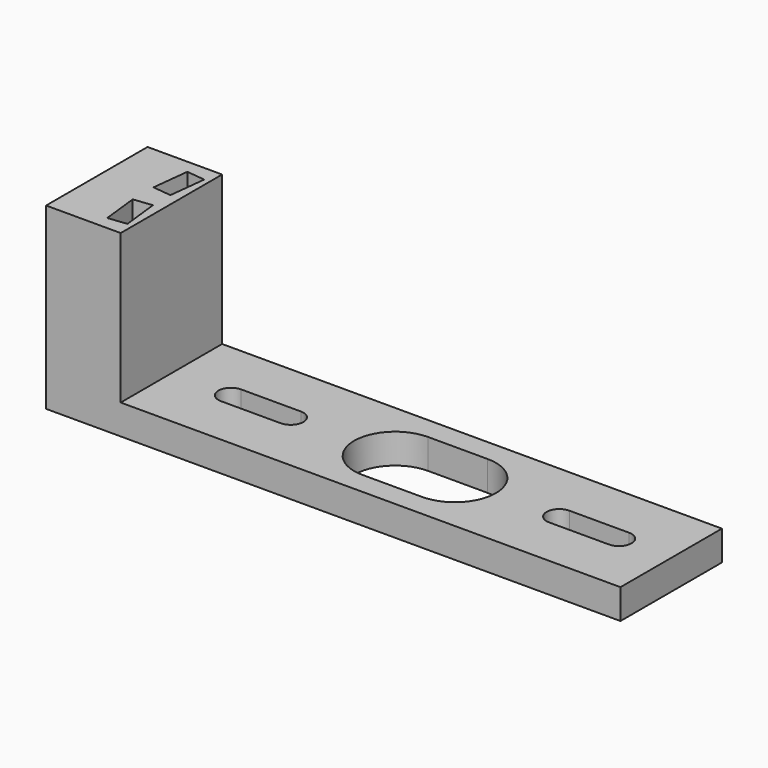
from build123d import *

# Parameters (mm, degrees)
PAD_DEPTH       = 8.5
POCKET_DEPTH    = 24.001
POCKET001_DEPTH = 8.5
CHAMFER_SIZE    = 1.5
CHAMFER001_SIZE = 1.5


with BuildPart() as part:
    # Sketch → Pad (new body, symmetric)
    with BuildSketch(Plane.XZ):
        Polygon((-44, -4), (-44, 20), (-34, 20), (-34, 0), (33, 0), (33, -4), align=None)
    extrude(amount=PAD_DEPTH, both=True)

    # Sketch001 → Pocket (cut, through all)
    with BuildSketch(Plane(origin=(0, 0, -4), x_dir=(1, 0, 0), z_dir=(0, 0, -1))):
        with BuildLine():
            ThreePointArc((-26, 1.7), (-27.7, 0), (-26, -1.7))
            Line((-26, -1.7), (-18, -1.7))
            ThreePointArc((-18, -1.7), (-16.3, 0), (-18, 1.7))
            Line((-26, 1.7), (-18, 1.7))
        make_face()
        with BuildLine():
            ThreePointArc((-4, 5.5), (-9.5, 0), (-4, -5.5))
            Line((-4, -5.5), (4, -5.5))
            ThreePointArc((4, -5.5), (9.5, 0), (4, 5.5))
            Line((-4, 5.5), (4, 5.5))
        make_face()
        with BuildLine():
            ThreePointArc((18, 1.7), (16.3, 0), (18, -1.7))
            Line((18, -1.7), (26, -1.7))
            ThreePointArc((26, -1.7), (27.7, 0), (26, 1.7))
            Line((18, 1.7), (26, 1.7))
        make_face()
    extrude(amount=-POCKET_DEPTH, mode=Mode.SUBTRACT)

    # Sketch006 → Pocket001 (cut)
    with BuildSketch(Plane(origin=(0, 0, 20), x_dir=(-1, 0, 0), z_dir=(0, 0, 1))):
        Polygon((34.748284, 6.431895), (37.232557, 6.711868), (37.792504, 1.743321), (35.30823, 1.463348), align=None)
        Polygon((35.30823, -1.463348), (37.792504, -1.743321), (37.232557, -6.711868), (34.748284, -6.431895), align=None)
    extrude(amount=-POCKET001_DEPTH, mode=Mode.SUBTRACT)

    # Chamfer
    chamfer_edges = [part.edges().sort_by_distance(p)[0] for p in [
        (22, 1.7, -4),
    ]]
    chamfer(chamfer_edges, length=CHAMFER_SIZE)

    # Chamfer001
    chamfer001_edges = [part.edges().sort_by_distance(p)[0] for p in [
        (-22, 1.7, -4),
    ]]
    chamfer(chamfer001_edges, length=CHAMFER001_SIZE)


solid = part.part
